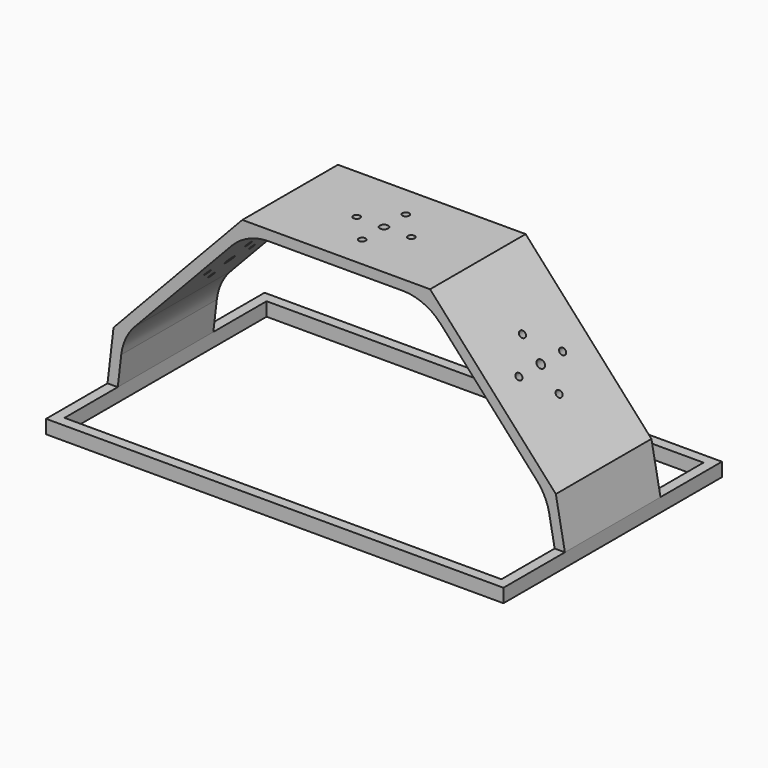
from build123d import *

# Parameters (mm, degrees)
F0_W          = 134
F0_H          = 80
F1_DEPTH      = 4
F2_W          = 128
F2_H          = 74
F2_W_2        = 122
F2_H_2        = 68
F3_DEPTH      = 2
F3_DEPTH_BACK = 4
F5_DEPTH      = 17.5
F6_R          = 1.2120191714
F6_R_2        = 1
F9_DEPTH      = 25
F7_R          = 1.4559122593
F7_R_2        = 1
F10_DEPTH     = 25
F8_R          = 1.2120191714
F8_R_2        = 1
F11_DEPTH     = 25
F12_R         = 15


with BuildPart() as f1:
    # F0 (on Top) → F1 (new body)
    with BuildSketch(Plane.XY):
        Rectangle(F0_W, F0_H)
    extrude(amount=F1_DEPTH)

    # F2 (on face) → F3 (cut, two sides)
    with BuildSketch(Plane(origin=(0, 0, 0), x_dir=(1, 0, 0), z_dir=(0, 0, -1))) as f3_sk:
        Rectangle(F2_W, F2_H)
        Rectangle(F2_W_2, F2_H_2, mode=Mode.SUBTRACT)
        Rectangle(F2_W_2, F2_H_2)
    extrude(amount=F3_DEPTH, mode=Mode.SUBTRACT)
    extrude(f3_sk.sketch, amount=-F3_DEPTH_BACK, mode=Mode.SUBTRACT)

    # F4 (on Front) → F5 (join, symmetric)
    with BuildSketch(Plane.XZ):
        Polygon((-27.5, 59), (-65.2364429114, 18.9879908478), (-67, 4), (-64, 4), (-62.3966282188, 17.6266195959), (-26.205621828, 56), (26.166218832, 56), (61.6182726396, 16.71034506), (64, 4), (67, 4), (64.3454915045, 18.1660710219), (27.5, 59), align=None)
    extrude(amount=F5_DEPTH, both=True)

    # F6 (on face) → F9 (cut)
    with BuildSketch(Plane.XY.offset(59)):
        Circle(F6_R)
        with Locations((-8, 0)):
            Circle(F6_R_2)
        with Locations((0, -8)):
            Circle(F6_R_2)
        with Locations((8, 0)):
            Circle(F6_R_2)
        with Locations((0, 8)):
            Circle(F6_R_2)
    extrude(amount=-F9_DEPTH, mode=Mode.SUBTRACT)

    # F7 (on face) → F10 (cut)
    with BuildSketch(Plane(origin=(-44.0036916199, 0, 41.501110089), x_dir=(0, -1, 0), z_dir=(-0.7274910755, 0, 0.6861171438))):
        with Locations((0, -4.9021602608)):
            Circle(F7_R)
        with Locations((-7.9994338844, -4.8069892056)):
            Circle(F7_R_2)
        with Locations((-0.0951710552, -12.9015941452)):
            Circle(F7_R_2)
        with Locations((7.9994338844, -4.997331316)):
            Circle(F7_R_2)
        with Locations((0.0951710552, 3.0972736235)):
            Circle(F7_R_2)
    extrude(amount=-F10_DEPTH, mode=Mode.SUBTRACT)

    # F8 (on face) → F11 (cut)
    with BuildSketch(Plane(origin=(44.5031382137, 0, 40.1563122143), x_dir=(0, 1, 0), z_dir=(0.7424350723, 0, 0.6699180274))):
        with Locations((0, -2.1190764849)):
            Circle(F8_R)
        with Locations((-8, -2.1190764849)):
            Circle(F8_R_2)
        with Locations((0, -10.1190764849)):
            Circle(F8_R_2)
        with Locations((8, -2.1190764849)):
            Circle(F8_R_2)
        with Locations((0, 5.8809235151)):
            Circle(F8_R_2)
    extrude(amount=-F11_DEPTH, mode=Mode.SUBTRACT)

    # F12
    f12_edges = [f1.edges().sort_by_distance(p)[0] for p in [
        (26.166219, 0, 56),
        (-26.205622, 0, 56),
        (61.618273, 0, 16.710345),
        (-62.396628, 0, 17.62662),
    ]]
    fillet(f12_edges, radius=F12_R)


solid = f1.part
